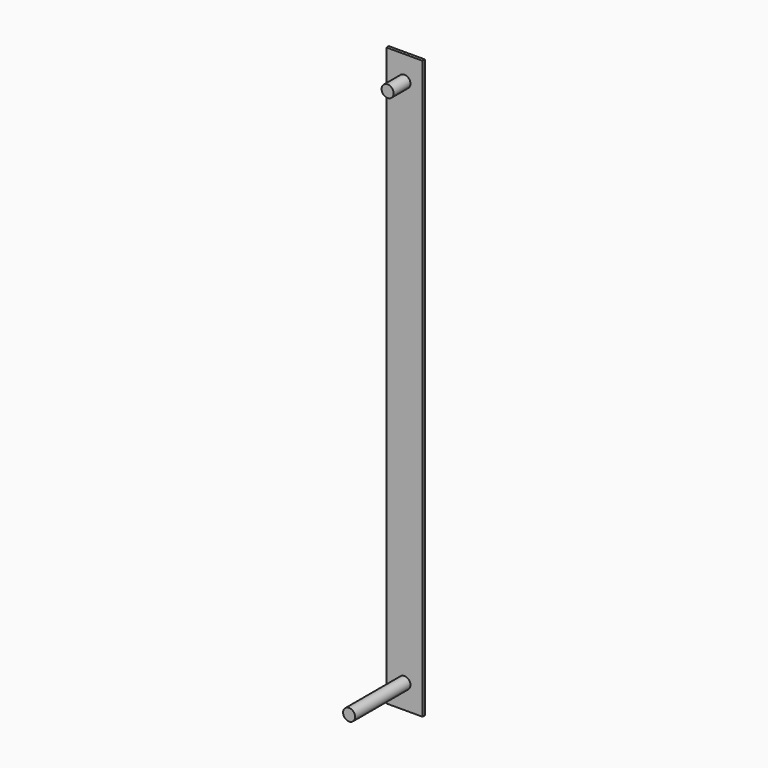
from build123d import *

# Parameters (mm, degrees)
F0_W          = 38.1
F0_H          = 609.6
F0_R          = 6.35
F1_DEPTH      = 3.175
F2_DEPTH      = 76.2
F2_DEPTH_BACK = 3.175
F3_DEPTH      = 25.4


with BuildPart() as f1:
    # F0 (on Front) → F1 (new body)
    with BuildSketch(Plane.XZ):
        with Locations((19.05, 304.8)):
            Rectangle(F0_W, F0_H)
        with Locations((19.05, 25.4)):
            Circle(F0_R, mode=Mode.SUBTRACT)
        with Locations((19.05, 584.2)):
            Circle(F0_R, mode=Mode.SUBTRACT)
    extrude(amount=F1_DEPTH)

    # F0 (on Front) → F2 (join, two sides)
    with BuildSketch(Plane.XZ) as f2_sk:
        with Locations((19.05, 25.4)):
            Circle(F0_R)
    extrude(amount=F2_DEPTH)
    extrude(f2_sk.sketch, amount=-F2_DEPTH_BACK)

    # F0 (on Front) → F3 (join)
    with BuildSketch(Plane.XZ):
        with Locations((19.05, 584.2)):
            Circle(F0_R)
    extrude(amount=F3_DEPTH)


solid = f1.part
